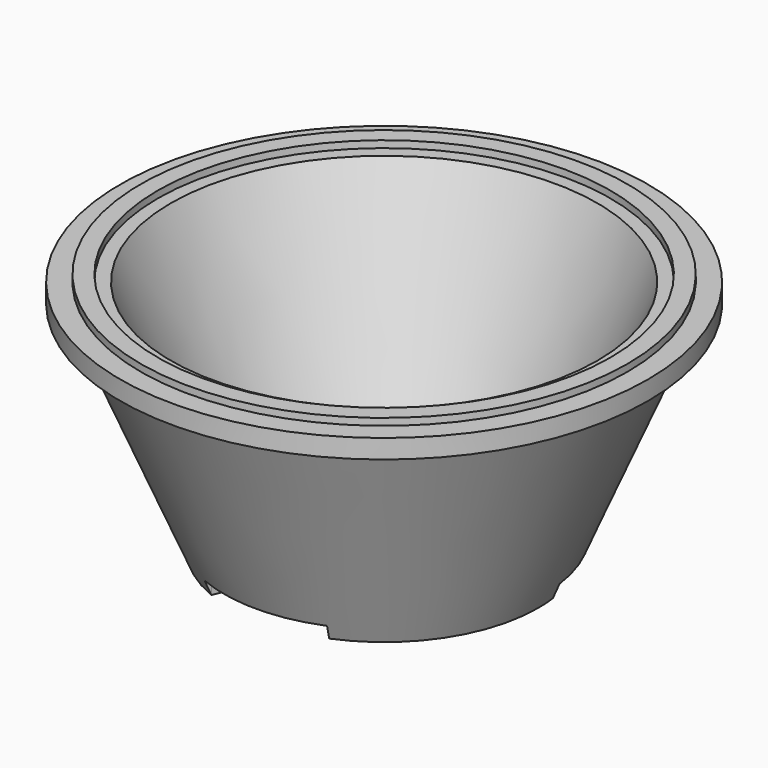
from build123d import *

# Parameters (mm, degrees)
F3_DEPTH = 15


with BuildPart() as f1:
    # F0 (on Front) → F1 (revolve)
    with BuildSketch(Plane.XZ):
        Polygon((30, 55), (30, 15), (143.6414506771, 15), (150, 0), (162.4696655932, 0), (259.9674218774, 230), (268.4454876412, 250), (256.7487955093, 250), (256.7487955093, 257.3588024481), (238.7105971575, 257.3588024481), (238.7105971575, 250), (225, 250), (142.3388588025, 55), align=None)
        Polygon((268.4454876412, 250), (259.9674218774, 230), (278.4454876412, 230), (278.4454876412, 250), align=None)
    revolve(axis=Axis((0, 0, 38.856908679), (0, 0, 1)))

    # F2 (on face) → F3 (cut, through all)
    with BuildSketch(Plane(origin=(0, 0, 0), x_dir=(1, 0, 0), z_dir=(0, 0, -1))):
        with BuildLine():
            Line((-62.1744492844, 150.1023986955), (-57.4025148548, 138.5819298767))
            ThreePointArc((-57.4025148548, 138.5819298767), (0, 150), (57.4025148548, 138.5819298767))
            Line((57.4025148548, 138.5819298767), (62.1744492844, 150.1023986955))
            ThreePointArc((62.1744492844, 150.1023986955), (0, 162.4696655932), (-62.1744492844, 150.1023986955))
        make_face()
        with BuildLine():
            ThreePointArc((148.7167292061, -19.578928833), (129.9038105677, -75), (91.3142143513, -119.0030010437))
            Line((91.3142143513, -119.0030010437), (98.9052657971, -128.8958518943))
            ThreePointArc((98.9052657971, -128.8958518943), (140.702857748, -81.2348327966), (161.0797150815, -21.2065468011))
            Line((161.0797150815, -21.2065468011), (148.7167292061, -19.578928833))
        make_face()
        with BuildLine():
            ThreePointArc((-91.3142143513, -119.0030010437), (-129.9038105677, -75), (-148.7167292061, -19.578928833))
            Line((-148.7167292061, -19.578928833), (-161.0797150815, -21.2065468011))
            ThreePointArc((-161.0797150815, -21.2065468011), (-140.702857748, -81.2348327966), (-98.9052657971, -128.8958518943))
            Line((-98.9052657971, -128.8958518943), (-91.3142143513, -119.0030010437))
        make_face()
        with BuildLine():
            Line((-91.3142143513, -119.0030010437), (0, 0))
            Line((0, 0), (-148.7167292061, -19.578928833))
            ThreePointArc((-148.7167292061, -19.578928833), (-129.9038105677, -75), (-91.3142143513, -119.0030010437))
        make_face()
        with BuildLine():
            Line((-57.4025148548, 138.5819298767), (0, 0))
            Line((0, 0), (57.4025148548, 138.5819298767))
            ThreePointArc((57.4025148548, 138.5819298767), (0, 150), (-57.4025148548, 138.5819298767))
        make_face()
        with BuildLine():
            Line((148.7167292061, -19.578928833), (0, 0))
            Line((0, 0), (91.3142143513, -119.0030010437))
            ThreePointArc((91.3142143513, -119.0030010437), (129.9038105677, -75), (148.7167292061, -19.578928833))
        make_face()
        with BuildLine():
            Line((-82.5295173068, 199.2438799781), (-62.1744492844, 150.1023986955))
            ThreePointArc((-62.1744492844, 150.1023986955), (0, 162.4696655932), (62.1744492844, 150.1023986955))
            Line((62.1744492844, 150.1023986955), (82.5295173068, 199.2438799781))
            Line((82.5295173068, 199.2438799781), (-82.5295173068, 199.2438799781))
        make_face()
        with BuildLine():
            ThreePointArc((-98.9052657971, -128.8958518943), (-140.702857748, -81.2348327966), (-161.0797150815, -21.2065468011))
            Line((-161.0797150815, -21.2065468011), (-213.815020263, -28.1492814393))
            Line((-213.815020263, -28.1492814393), (-131.2855029562, -171.0945985388))
            Line((-131.2855029562, -171.0945985388), (-98.9052657971, -128.8958518943))
        make_face()
        with BuildLine():
            ThreePointArc((161.0797150815, -21.2065468011), (140.702857748, -81.2348327966), (98.9052657971, -128.8958518943))
            Line((98.9052657971, -128.8958518943), (131.2855029562, -171.0945985388))
            Line((131.2855029562, -171.0945985388), (213.815020263, -28.1492814393))
            Line((213.815020263, -28.1492814393), (161.0797150815, -21.2065468011))
        make_face()
    extrude(amount=-F3_DEPTH, mode=Mode.SUBTRACT)


solid = f1.part
